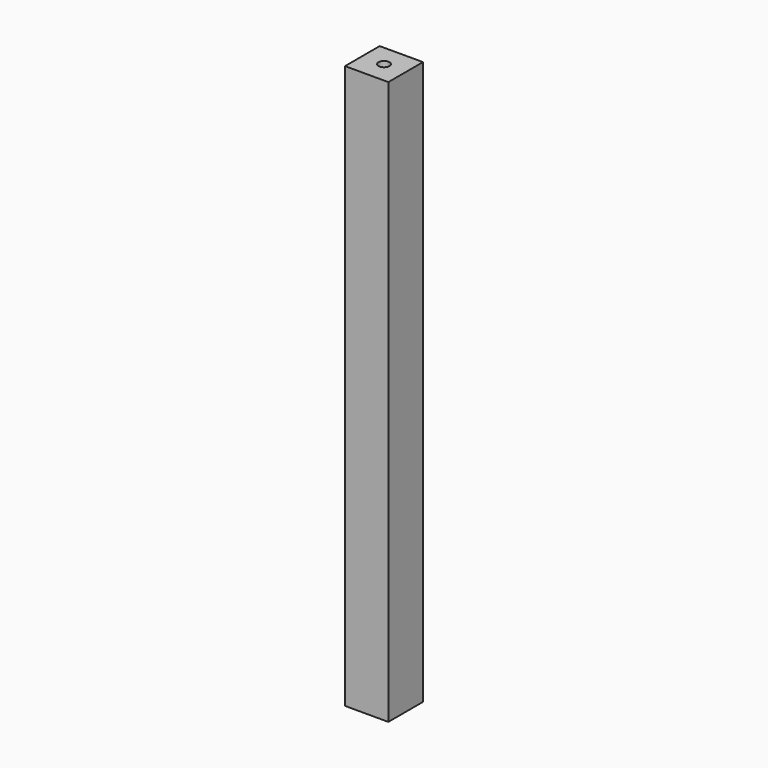
from build123d import *

# Parameters (mm, degrees)
F0_W     = 10
F0_H     = 10
F1_DEPTH = 130
F3_D     = 2.5
F3_DEPTH = 10
F3_TIP   = 0.7510757738
F5_D     = 2.5
F5_DEPTH = 10
F5_TIP   = 0.7510757738


with BuildPart() as f1:
    # F0 (on Top) → F1 (new body)
    with BuildSketch(Plane.XY):
        with Locations((5, 5)):
            Rectangle(F0_W, F0_H)
    extrude(amount=F1_DEPTH)

    # F3
    with Locations(Plane(origin=(0, 0, 0), x_dir=(1, 0, 0), z_dir=(0, 0, -1))):
        with Locations((5, -5)):
            Hole(F3_D / 2, depth=F3_DEPTH)
            with Locations((0, 0, -(F3_DEPTH + F3_TIP / 2))):  # 118° drill point
                Cone(0, F3_D / 2, F3_TIP, mode=Mode.SUBTRACT)

    # F5
    with Locations(Plane.XY.offset(130)):
        with Locations((5, 5)):
            Hole(F5_D / 2, depth=F5_DEPTH)
            with Locations((0, 0, -(F5_DEPTH + F5_TIP / 2))):  # 118° drill point
                Cone(0, F5_D / 2, F5_TIP, mode=Mode.SUBTRACT)


solid = f1.part
